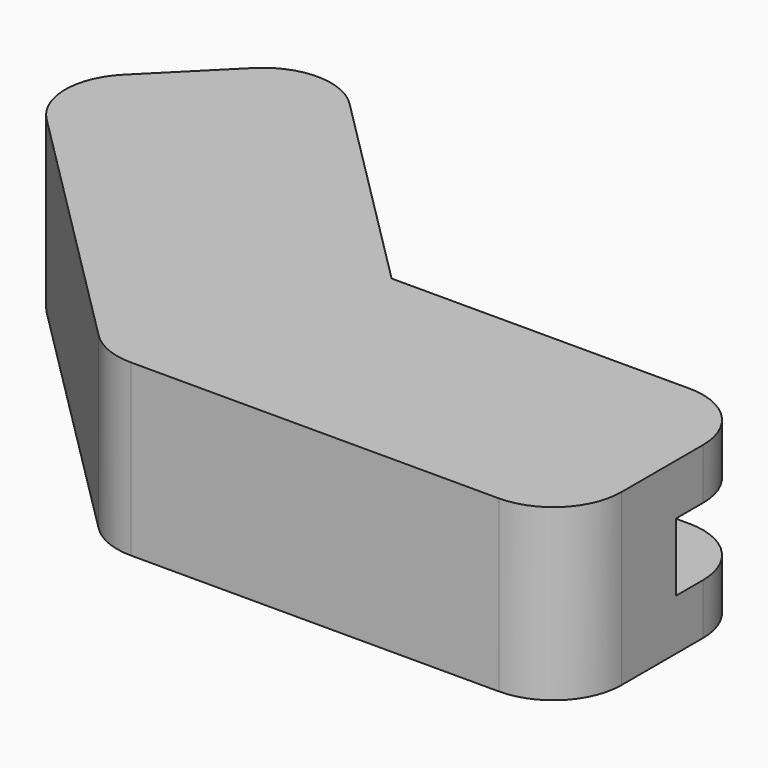
from build123d import *

# Parameters (mm, degrees)
F1_DEPTH = 5
F2_W     = 10.7573593129
F2_H     = 2
F3_DEPTH = 3
F4_W     = 10.7573593129
F4_H     = 2
F5_DEPTH = 3
F6_W     = 3
F6_H     = 2
F7_DEPTH = 1
F8_W     = 1.5857864376
F8_H     = 2
F9_DEPTH = 1.4
F10_R    = 2


with BuildPart() as f1:
    # F0 (on Top) → F1 (new body)
    with BuildSketch(Plane.XY):
        Polygon((-11.313708499, 5.6568542495), (-1.6568542495, -4), (12, -4), (12, 3), (1.2426406871, 3), (-6.3639610307, 10.6066017178), align=None)
    extrude(amount=F1_DEPTH)

    # F2 (on face) → F3 (cut)
    with BuildSketch(Plane(origin=(2.1213203436, 2.1213203436, 0), x_dir=(-0.7071067812, 0.7071067812, 0), z_dir=(0.7071067812, 0.7071067812, 0))):
        with Locations((6.6213203436, 2.5)):
            Rectangle(F2_W, F2_H)
    extrude(amount=-F3_DEPTH, mode=Mode.SUBTRACT)

    # F4 (on face) → F5 (cut)
    with BuildSketch(Plane(origin=(0, 3, 0), x_dir=(-1, 0, 0), z_dir=(0, 1, 0))):
        with Locations((-6.6213203436, 2.5)):
            Rectangle(F4_W, F4_H)
    extrude(amount=-F5_DEPTH, mode=Mode.SUBTRACT)

    # F6 (on face) → F7 (cut)
    with BuildSketch(Plane.YZ.offset(1.2426406871)):
        with Locations((1.5, 2.5)):
            Rectangle(F6_W, F6_H)
    extrude(amount=-F7_DEPTH, mode=Mode.SUBTRACT)

    # F8 (on face) → F9 (cut)
    with BuildSketch(Plane(origin=(-0.8786796564, 0.8786796564, 0), x_dir=(-0.7071067812, -0.7071067812, 0), z_dir=(-0.7071067812, 0.7071067812, 0))):
        with Locations((-0.7928932188, 2.5)):
            Rectangle(F8_W, F8_H)
    extrude(amount=-F9_DEPTH, mode=Mode.SUBTRACT)

    # F10
    f10_edges = [f1.edges().sort_by_distance(p)[0] for p in [
        (-1.656854, -4, 2.5),
        (-11.313708, 5.656854, 2.5),
        (12, -4, 2.5),
        (12, 3, 4.25),
        (12, 3, 0.75),
        (-6.363961, 10.606602, 4.25),
        (-6.363961, 10.606602, 0.75),
    ]]
    fillet(f10_edges, radius=F10_R)


solid = f1.part
